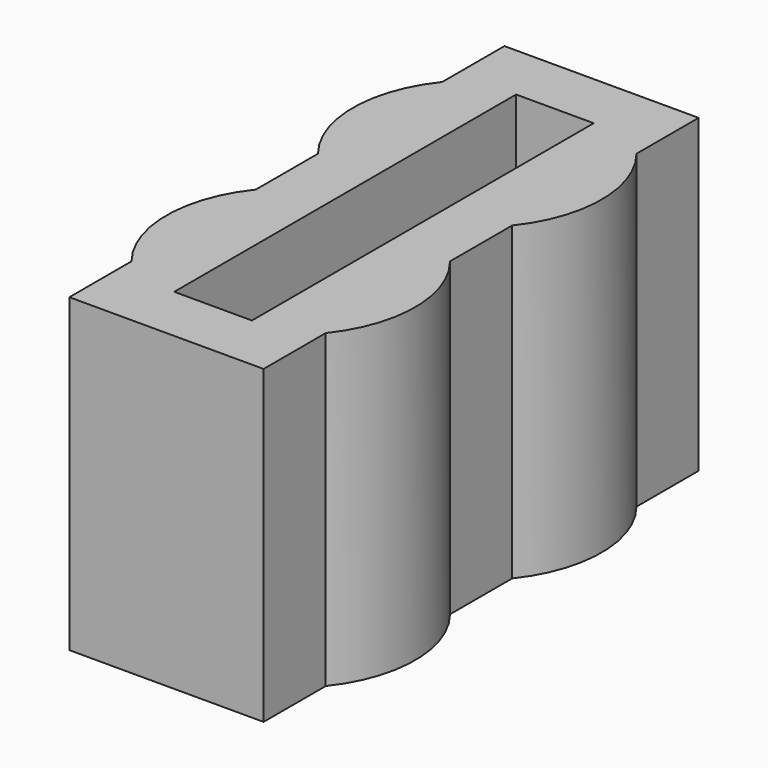
from build123d import *

# Parameters (mm, degrees)
F0_W     = 5
F0_H     = 14
F0_W_2   = 2
F0_H_2   = 11
F1_DEPTH = 8
F3_DEPTH = 8


with BuildPart() as f1:
    # F0 (on Top) → F1 (new body)
    with BuildSketch(Plane.XY):
        Rectangle(F0_W, F0_H)
        Rectangle(F0_W_2, F0_H_2, mode=Mode.SUBTRACT)
    extrude(amount=F1_DEPTH)

    # F2 (on Top) → F3 (join)
    with BuildSketch(Plane.XY):
        with BuildLine():
            Line((2.5, 5), (2.5, 1))
            ThreePointArc((2.5, 1), (3.201562, 3), (2.5, 5))
        make_face()
        with BuildLine():
            Line((2.5, -1), (2.5, -5))
            ThreePointArc((2.5, -5), (3.201562, -3), (2.5, -1))
        make_face()
        with BuildLine():
            Line((-2.5, 1), (-2.5, 5))
            ThreePointArc((-2.5, 5), (-3.201562, 3), (-2.5, 1))
        make_face()
        with BuildLine():
            Line((-2.5, -5), (-2.5, -1))
            ThreePointArc((-2.5, -1), (-3.201562, -3), (-2.5, -5))
        make_face()
    extrude(amount=F3_DEPTH)


solid = f1.part
